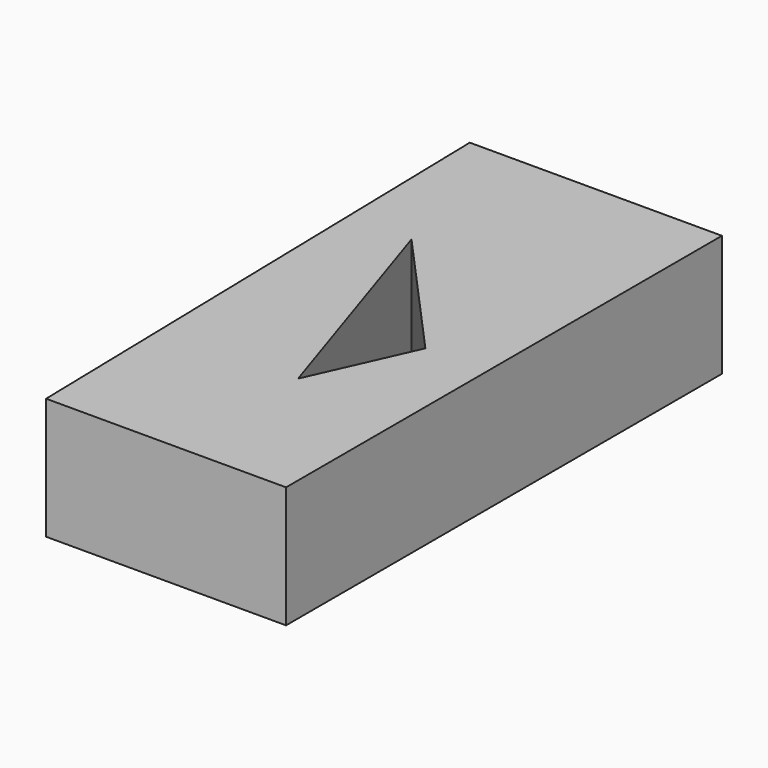
from build123d import *

# Parameters (mm, degrees)
F1_DEPTH = 25.4
F3_DEPTH = 25.4


with BuildPart() as f1:
    # F0 (on Top) → F1 (new body)
    with BuildSketch(Plane.XY):
        Polygon((112.51042, -58.933802), (112.51042, 54.940589), (59.809308, 54.940589), (62.352236, -58.933802), align=None)
    extrude(amount=F1_DEPTH)

    # F2 (on face) → F3 (cut)
    with BuildSketch(Plane.XY.offset(25.4)):
        Polygon((99.570245, -6.359931), (73.731966, 22.307834), (90.033717, -27.709398), align=None)
    extrude(amount=-F3_DEPTH, mode=Mode.SUBTRACT)


solid = f1.part
